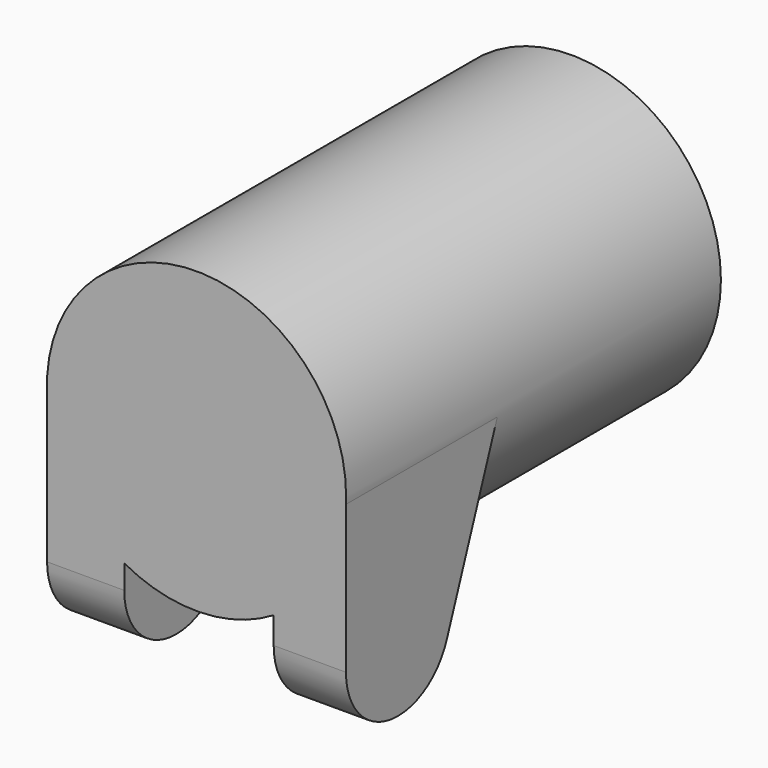
from build123d import *

# Parameters (mm, degrees)
F1_DEPTH = 50.8
F2_W     = 50.8
F2_H     = 74.168
F3_DEPTH = 170.688
F4_R     = 50.8571740797
F5_DEPTH = 159.258


with BuildPart() as f1:
    # F0 (on Right) → F1 (new body, symmetric)
    with BuildSketch(Plane.YZ):
        with BuildLine():
            Line((0, 40.3383746743), (0, -11.3177125019))
            ThreePointArc((0, -11.3177125019), (18.2004266595, -33.0743933699), (42.8294130616, -19.0023742616))
            Line((42.8294130616, -19.0023742616), (64.8321659319, 40.3383746743))
            Line((64.8321659319, 40.3383746743), (0, 40.3383746743))
        make_face()
    extrude(amount=F1_DEPTH, both=True)

    # F2 (on Front) → F3 (cut)
    with BuildSketch(Plane.XZ):
        with Locations((0.8334377781, 3.3744326594)):
            Rectangle(F2_W, F2_H)
    extrude(amount=-F3_DEPTH, mode=Mode.SUBTRACT)

    # F4 (on Front) → F5 (join)
    with BuildSketch(Plane.XZ):
        with Locations((0, 41.3384996355)):
            Circle(F4_R)
    extrude(amount=-F5_DEPTH)


solid = f1.part
